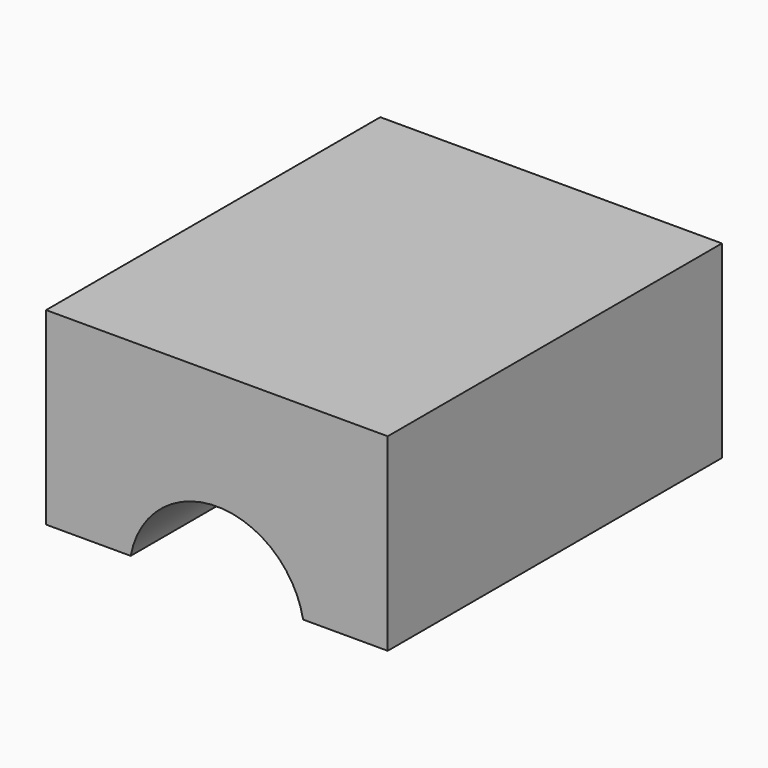
from build123d import *

# Parameters (mm, degrees)
F1_DEPTH = 25


with BuildPart() as f1:
    # F0 (on Front) → F1 (new body)
    with BuildSketch(Plane.XZ):
        with BuildLine():
            ThreePointArc((-5.160009, 0.057408), (7.6e-05, 4.339926), (5.160161, 0.057408))
            Line((5.160161, 0.057408), (10.223921, 0.057408))
            Line((10.223921, 0.057408), (10.223921, 11.362204))
            Line((10.223921, 11.362204), (-10.22377, 11.362204))
            Line((-10.22377, 11.362204), (-10.22377, 0.057408))
            Line((-10.22377, 0.057408), (-5.160009, 0.057408))
        make_face()
    extrude(amount=F1_DEPTH)


solid = f1.part
